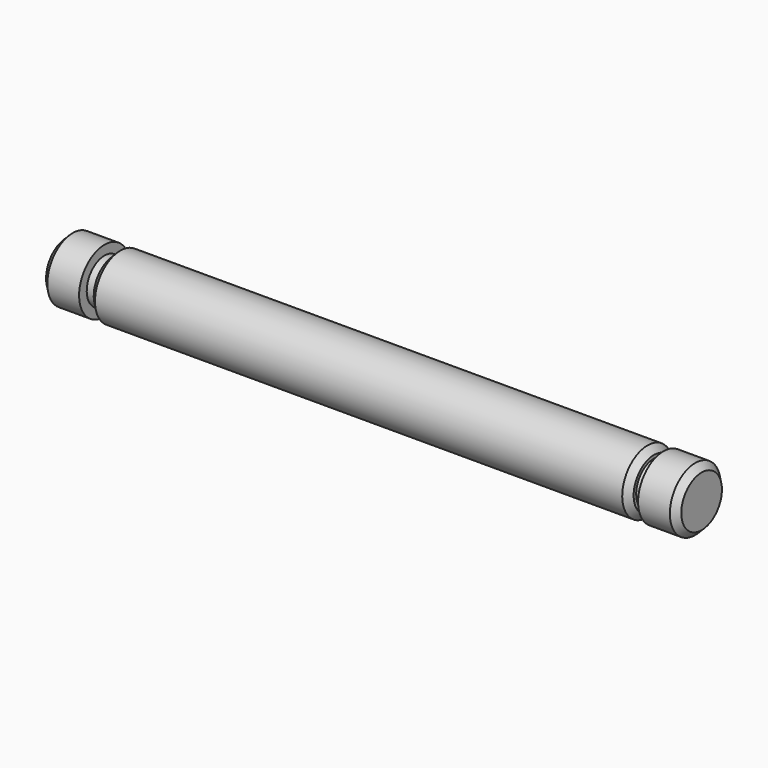
from build123d import *

# Parameters (mm, degrees)
F2_SIZE = 1


with BuildPart() as f1:
    # F0 (on Front) → F1 (revolve)
    with BuildSketch(Plane.XZ):
        Polygon((-83.14801, 5), (-83.14801, 0), (16.85199, 0), (16.85199, 5), (10.85199, 5), (10.85199, 3.5), (9.35199, 3.5), (9.35199, 5), (-75.64801, 5), (-75.64801, 3.5), (-77.14801, 3.5), (-77.14801, 5), align=None)
    revolve(axis=Axis((-33.14801, 0, 0), (1, 0, 0)))

    # F2
    f2_edges = [f1.edges().sort_by_distance(p)[0] for p in [
        (-83.14801, 0, -5),
        (-75.64801, 0, -5),
        (16.85199, 0, -5),
        (9.35199, 0, -5),
    ]]
    chamfer(f2_edges, length=F2_SIZE)


solid = f1.part
